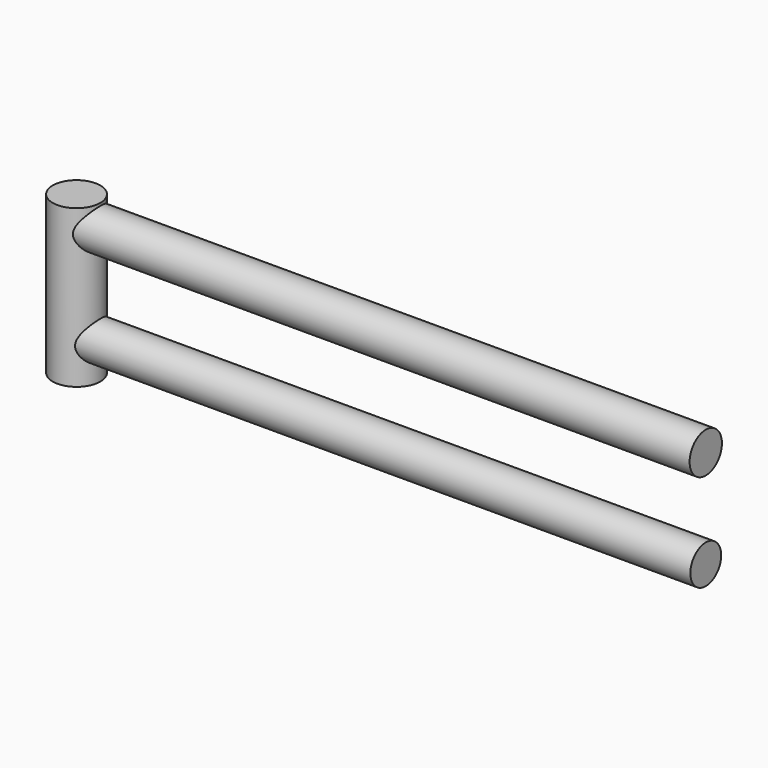
from build123d import *

# Parameters (mm, degrees)
F0_R     = 7.675775
F1_DEPTH = 50.8
F2_R     = 6.521337
F3_DEPTH = 203.2
F4_R     = 6.217419
F5_DEPTH = 203.2


with BuildPart() as f1:
    # F0 (on Top) → F1 (new body)
    with BuildSketch(Plane.XY):
        Circle(F0_R)
    extrude(amount=F1_DEPTH)

    # F2 (on Right) → F3 (join)
    with BuildSketch(Plane.YZ):
        with Locations((0, 43.410912)):
            Circle(F2_R)
    extrude(amount=F3_DEPTH)

    # F4 (on Right) → F5 (join)
    with BuildSketch(Plane.YZ):
        with Locations((0, 11.660909)):
            Circle(F4_R)
    extrude(amount=F5_DEPTH)


solid = f1.part
